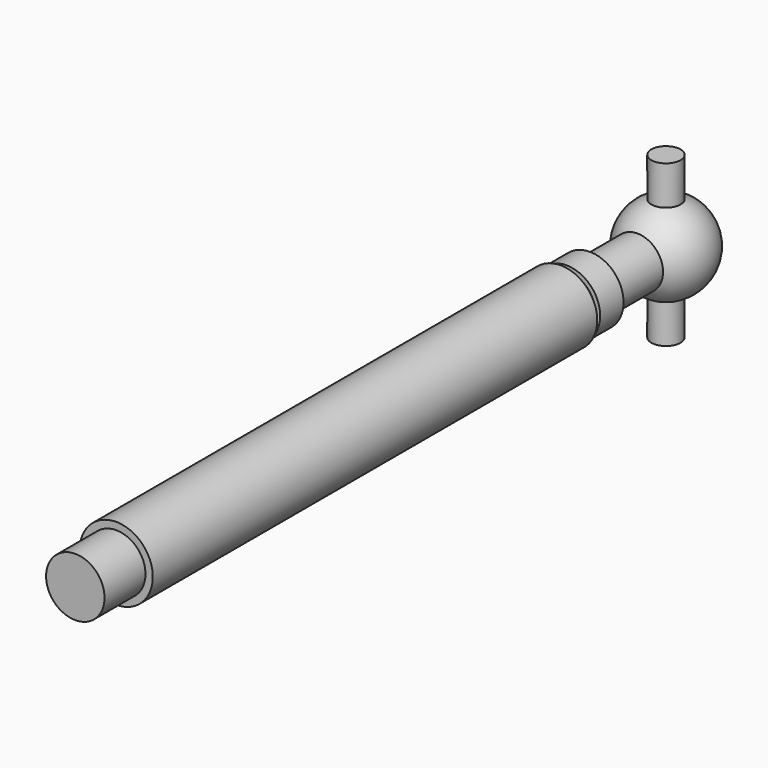
from build123d import *

# Parameters (mm, degrees)
CYLINDER830_R                                           = 2.5
CYLINDER830_DEPTH                                       = 38
CYLINDER832_R                                           = 2.3
CYLINDER832_DEPTH                                       = 2
CYLINDER831_R                                           = 2
CYLINDER831_DEPTH                                       = 0.5
CYLINDER833_R                                           = 1.75
CYLINDER833_DEPTH                                       = 6
CYLINDER834_R                                           = 1
CYLINDER834_DEPTH                                       = 11
CYLINDER828_R                                           = 2
CYLINDER828_DEPTH                                       = 3.5
FUSION088026007031024007008004081022014_PLACEMENT_ANGLE = 180


with BuildPart() as cylinder:
    # Cylinder830 → Cylinder830 (new body)
    with BuildSketch(Plane.XZ.offset(-86.5)):
        Circle(CYLINDER830_R)
    extrude(amount=CYLINDER830_DEPTH)


with BuildPart() as cylinder832:
    # Cylinder832 → Cylinder832 (new body)
    with BuildSketch(Plane.XZ.offset(-48)):
        Circle(CYLINDER832_R)
    extrude(amount=CYLINDER832_DEPTH)


with BuildPart() as cylinder831:
    # Cylinder831 → Cylinder831 (new body)
    with BuildSketch(Plane.XZ.offset(-48.5)):
        Circle(CYLINDER831_R)
    extrude(amount=CYLINDER831_DEPTH)


with BuildPart() as sphere:
    # Sphere → Sphere (revolve)
    with BuildSketch(Plane.XZ.offset(-39.5)):
        with BuildLine():
            ThreePointArc((0, -3), (3, 0), (0, 3))
            Line((0, 3), (0, -3))
        make_face()
    revolve(axis=Axis((0, 39.5, 0), (0, 0, 1)))


with BuildPart() as cylinder833:
    # Cylinder833 → Cylinder833 (new body)
    with BuildSketch(Plane.XZ.offset(-46)):
        Circle(CYLINDER833_R)
    extrude(amount=CYLINDER833_DEPTH)


with BuildPart() as cylinder834:
    # Cylinder834 → Cylinder834 (new body)
    with BuildSketch(Plane(origin=(0, 39.5, -5.5), x_dir=(0, 1, 0), z_dir=(0, 0, 1))):
        Circle(CYLINDER834_R)
    extrude(amount=CYLINDER834_DEPTH)


with BuildPart() as axle_shaft_left:
    # Cylinder828 → Cylinder828 (new body)
    with BuildSketch(Plane.XZ.offset(-90)):
        Circle(CYLINDER828_R)
    extrude(amount=CYLINDER828_DEPTH)

    # Fusion088026007031024007008004081022014: union Cylinder, Cylinder832, Cylinder831, Sphere, Cylinder833, Cylinder834
    add(cylinder.part)
    add(cylinder832.part)
    add(cylinder831.part)
    add(sphere.part)
    add(cylinder833.part)
    add(cylinder834.part)


with BuildPart() as axle_shaft_left_1:
    # Fusion088026007031024007008004081022014 placement: moved
    add(axle_shaft_left.part.moved(Location((75, 93, 46))).rotate(Axis((75, 93, 46), (0, 0, 1)), FUSION088026007031024007008004081022014_PLACEMENT_ANGLE))


solid = axle_shaft_left_1.part
